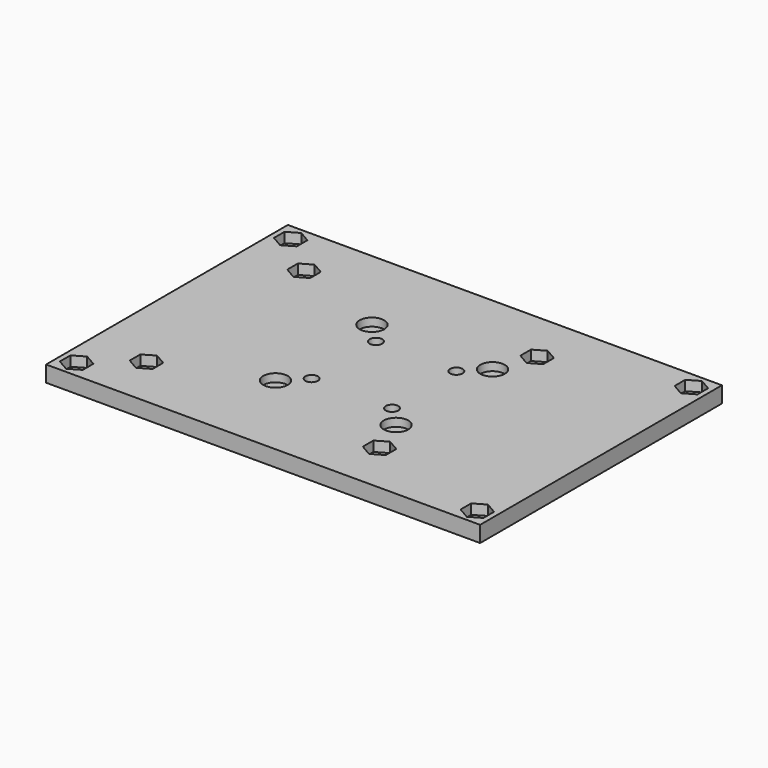
from build123d import *

# Parameters (mm, degrees)
SKETCH_W        = 108
SKETCH_H        = 75.2
SKETCH_R        = 1.55
PAD_DEPTH       = 4
SKETCH001_R     = 3.05
POCKET_DEPTH    = 2
POCKET001_DEPTH = 2.5
SKETCH003_R     = 1.55
POCKET002_DEPTH = 4


with BuildPart() as part:
    # Sketch → Pad (new body)
    with BuildSketch(Plane.XY):
        Rectangle(SKETCH_W, SKETCH_H)
        with Locations((-10, 10)):
            Circle(SKETCH_R, mode=Mode.SUBTRACT)
        with Locations((10, 10)):
            Circle(SKETCH_R, mode=Mode.SUBTRACT)
        with Locations((10, -10)):
            Circle(SKETCH_R, mode=Mode.SUBTRACT)
        with Locations((-10, -10)):
            Circle(SKETCH_R, mode=Mode.SUBTRACT)
    extrude(amount=PAD_DEPTH)

    # Sketch001 (on Face10 of Pad) → Pocket (cut)
    with BuildSketch(Plane.XY.offset(4)):
        with Locations((-15, 15)):
            Circle(SKETCH001_R)
        with Locations((15, 15)):
            Circle(SKETCH001_R)
        with Locations((15, -15)):
            Circle(SKETCH001_R)
        with Locations((-15, -15)):
            Circle(SKETCH001_R)
    extrude(amount=-POCKET_DEPTH, mode=Mode.SUBTRACT)

    # Sketch002 (on Face5 of Pocket) → Pocket001 (cut)
    with BuildSketch(Plane.XY.offset(4)):
        Polygon((-47, 31.645448), (-47, 34.936345), (-49.85, 36.581793), (-52.7, 34.936345), (-52.7, 31.645448), (-49.85, 30), align=None)
        Polygon((-49.85, -36.581793), (-47, -34.936345), (-47, -31.645448), (-49.85, -30), (-52.7, -31.645448), (-52.7, -34.936345), align=None)
        Polygon((52.7, -34.936345), (52.7, -31.645448), (49.85, -30), (47, -31.645448), (47, -34.936345), (49.85, -36.581793), align=None)
        Polygon((52.7, 31.645448), (52.7, 34.936345), (49.85, 36.581793), (47, 34.936345), (47, 31.645448), (49.85, 30), align=None)
        Polygon((-36.65, 22.854552), (-36.65, 26.145448), (-39.5, 27.790897), (-42.35, 26.145448), (-42.35, 22.854552), (-39.5, 21.209103), align=None)
        Polygon((21.35, 26.145448), (18.5, 27.790897), (15.65, 26.145448), (15.65, 22.854552), (18.5, 21.209103), (21.35, 22.854552), align=None)
        Polygon((21.35, -26.145448), (21.35, -22.854552), (18.5, -21.209103), (15.65, -22.854552), (15.65, -26.145448), (18.5, -27.790897), align=None)
        Polygon((-36.65, -26.145448), (-36.65, -22.854552), (-39.5, -21.209103), (-42.35, -22.854552), (-42.35, -26.145448), (-39.5, -27.790897), align=None)
    extrude(amount=-POCKET001_DEPTH, mode=Mode.SUBTRACT)

    # Sketch003 (on Face5 of Pocket001) → Pocket002 (cut)
    with BuildSketch(Plane.XY.offset(4)):
        with Locations((-49.75, 33.291)):
            Circle(SKETCH003_R)
        with Locations((-39.5, 24.5)):
            Circle(SKETCH003_R)
        with Locations((18.5, 24.5)):
            Circle(SKETCH003_R)
        with Locations((49.75, 33.291)):
            Circle(SKETCH003_R)
        with Locations((49.75, -33.291)):
            Circle(SKETCH003_R)
        with Locations((18.5, -24.5)):
            Circle(SKETCH003_R)
        with Locations((-39.5, -24.5)):
            Circle(SKETCH003_R)
        with Locations((-49.75, -33.291)):
            Circle(SKETCH003_R)
    extrude(amount=-POCKET002_DEPTH, mode=Mode.SUBTRACT)


solid = part.part
